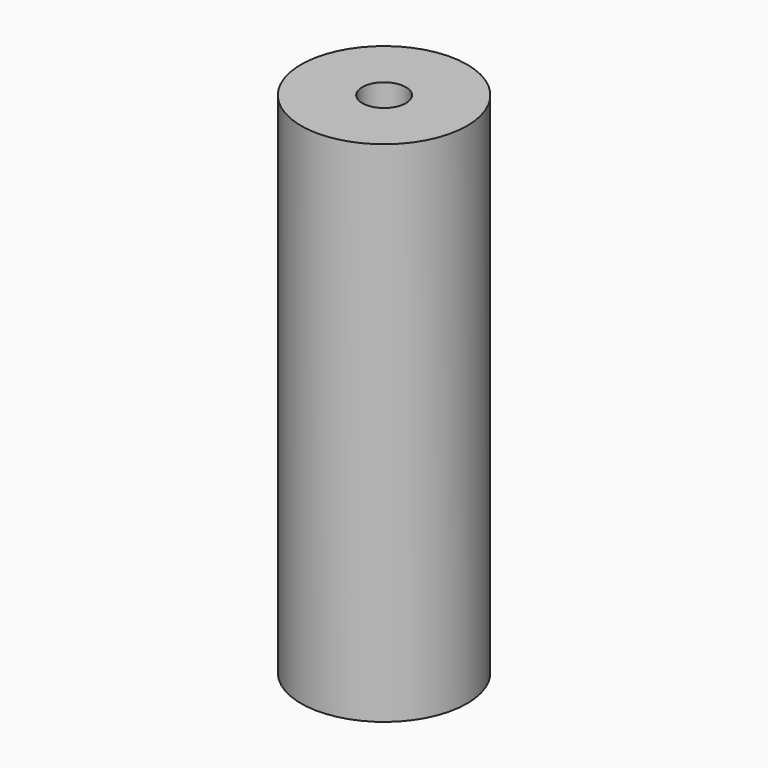
from build123d import *

# Parameters (mm, degrees)
F0_R     = 8
F1_DEPTH = 49
F3_D     = 4.2
F3_DEPTH = 17.4
F3_TIP   = 1.2618073
F5_D     = 4.2
F5_DEPTH = 17.4
F5_TIP   = 1.2618073


with BuildPart() as f1:
    # F0 (on Top) → F1 (new body)
    with BuildSketch(Plane.XY):
        Circle(F0_R)
    extrude(amount=F1_DEPTH)

    # F3
    with Locations(Plane.XY.offset(49)):
        with Locations((0, 0)):
            Hole(F3_D / 2, depth=F3_DEPTH)
            with Locations((0, 0, -(F3_DEPTH + F3_TIP / 2))):  # 118° drill point
                Cone(0, F3_D / 2, F3_TIP, mode=Mode.SUBTRACT)

    # F5
    with Locations(Plane(origin=(0, 0, 0), x_dir=(1, 0, 0), z_dir=(0, 0, -1))):
        with Locations((0, 0)):
            Hole(F5_D / 2, depth=F5_DEPTH)
            with Locations((0, 0, -(F5_DEPTH + F5_TIP / 2))):  # 118° drill point
                Cone(0, F5_D / 2, F5_TIP, mode=Mode.SUBTRACT)


solid = f1.part
